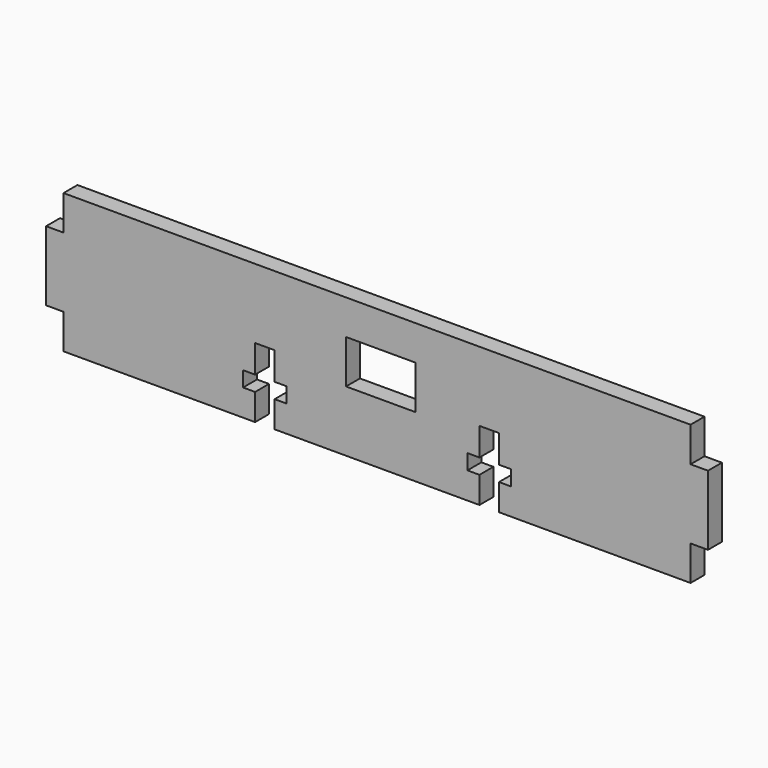
from build123d import *

# Parameters (mm, degrees)
F0_W     = 12.7
F0_H     = 7.9375
F1_DEPTH = 1.5875


with BuildPart() as f1:
    # F0 (on Front) → F1 (new body, symmetric)
    with BuildSketch(Plane.XZ):
        Polygon((57.15, -5.794347), (-57.15, -5.794347), (-57.15, -12.144347), (-60.325, -12.144347), (-60.325, -24.844347), (-57.15, -24.844347), (-57.15, -31.194347), (-22.225, -31.194347), (-22.225, -26.352472), (-24.41575, -26.352472), (-24.41575, -23.574347), (-22.225, -23.574347), (-22.225, -18.494347), (-18.669, -18.494347), (-18.669, -23.574347), (-16.47825, -23.574347), (-16.47825, -26.352472), (-18.669, -26.352472), (-18.669, -31.194347), (18.669, -31.194347), (18.669, -26.352472), (16.47825, -26.352472), (16.47825, -23.574347), (18.669, -23.574347), (18.669, -18.494347), (22.225, -18.494347), (22.225, -23.574347), (24.41575, -23.574347), (24.41575, -26.352472), (22.225, -26.352472), (22.225, -31.194347), (57.15, -31.194347), (57.15, -24.844347), (60.325, -24.844347), (60.325, -12.144347), (57.15, -12.144347), align=None)
        with Locations((0.695352, -16.113097)):
            Rectangle(F0_W, F0_H, mode=Mode.SUBTRACT)
    extrude(amount=F1_DEPTH, both=True)


solid = f1.part
